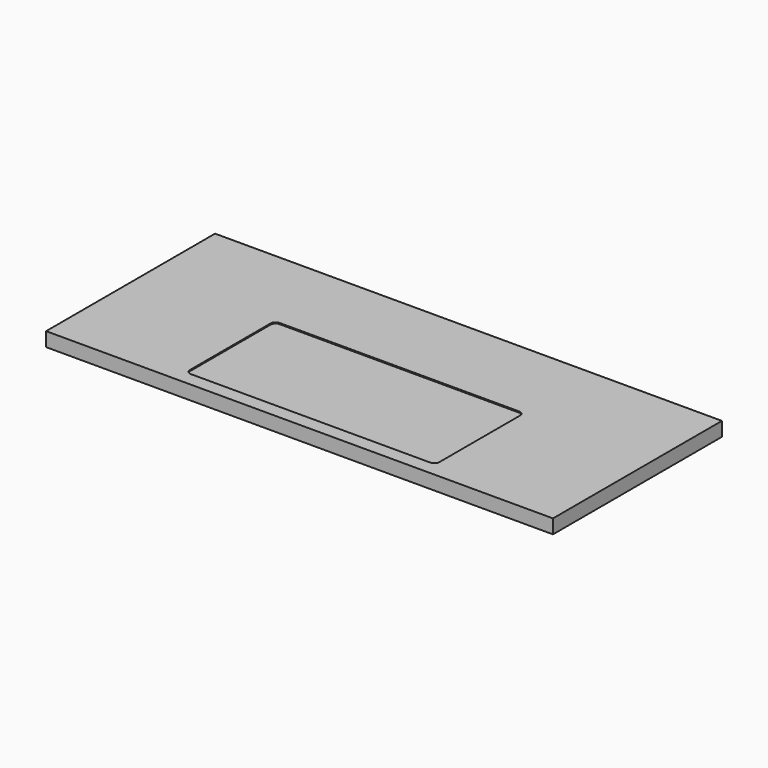
from build123d import *

# Parameters (mm, degrees)
F0_W     = 1828.8
F0_H     = 762
F1_DEPTH = 50.8
F3_DEPTH = 3.999992


with BuildPart() as f1:
    # F0 (on Top) → F1 (new body)
    with BuildSketch(Plane.XY):
        Rectangle(F0_W, F0_H)
    extrude(amount=F1_DEPTH)

    # F2 (on face) → F3 (cut)
    with BuildSketch(Plane.XY.offset(50.8)):
        with BuildLine():
            Line((-431.737389, -330.910944), (431.737389, -330.910944))
            ThreePointArc((431.737389, -330.910944), (444.650997, -325.561952), (449.999989, -312.648344))
            Line((449.999989, -312.648344), (449.999989, 50.826418))
            ThreePointArc((449.999989, 50.826418), (444.650997, 63.740026), (431.737389, 69.089018))
            Line((431.737389, 69.089018), (-431.733243, 69.089018))
            ThreePointArc((-431.733243, 69.089018), (-444.649783, 63.738812), (-449.999989, 50.822273))
            Line((-449.999989, 50.822273), (-449.999989, -312.648344))
            ThreePointArc((-449.999989, -312.648344), (-444.650997, -325.561952), (-431.737389, -330.910944))
        make_face()
    extrude(amount=-F3_DEPTH, mode=Mode.SUBTRACT)


solid = f1.part
